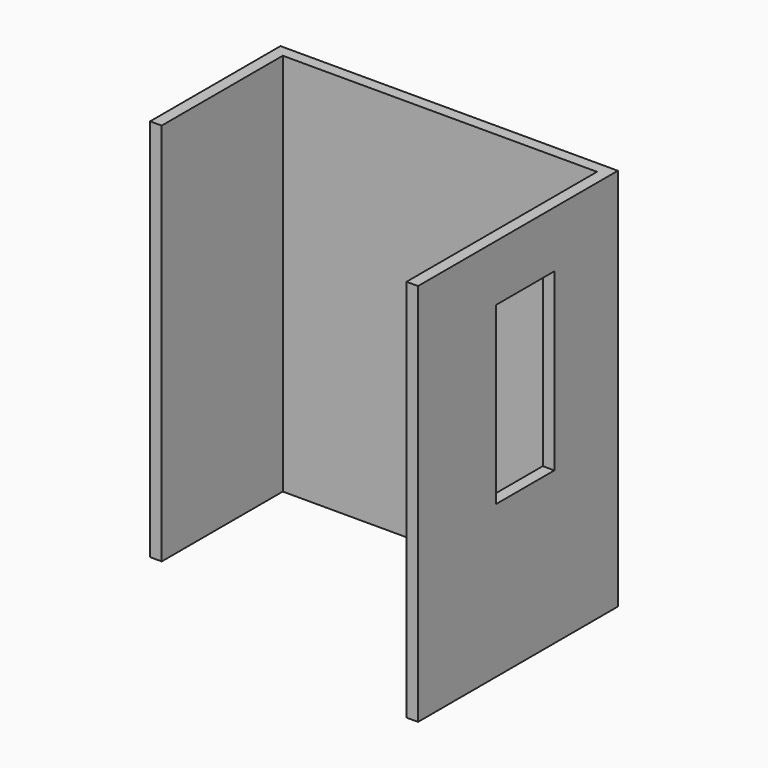
from build123d import *

# Parameters (mm, degrees)
F1_DEPTH = 2946.4
F2_W     = 558.8
F2_H     = 1346.2
F3_DEPTH = 88.9


with BuildPart() as f1:
    # F0 (on Top) → F1 (new body)
    with BuildSketch(Plane.XY):
        Polygon((-1206.5, -1162.05), (-1206.5, 0), (1206.5, 0), (1206.5, -1828.8), (1295.4, -1828.8), (1295.4, 88.9), (-1295.4, 88.9), (-1295.4, -1162.05), align=None)
    extrude(amount=F1_DEPTH)

    # F2 (on face) → F3 (cut, through all)
    with BuildSketch(Plane.YZ.offset(1295.4)):
        with Locations((-800.1, 1841.5)):
            Rectangle(F2_W, F2_H)
    extrude(amount=-F3_DEPTH, mode=Mode.SUBTRACT)


solid = f1.part
